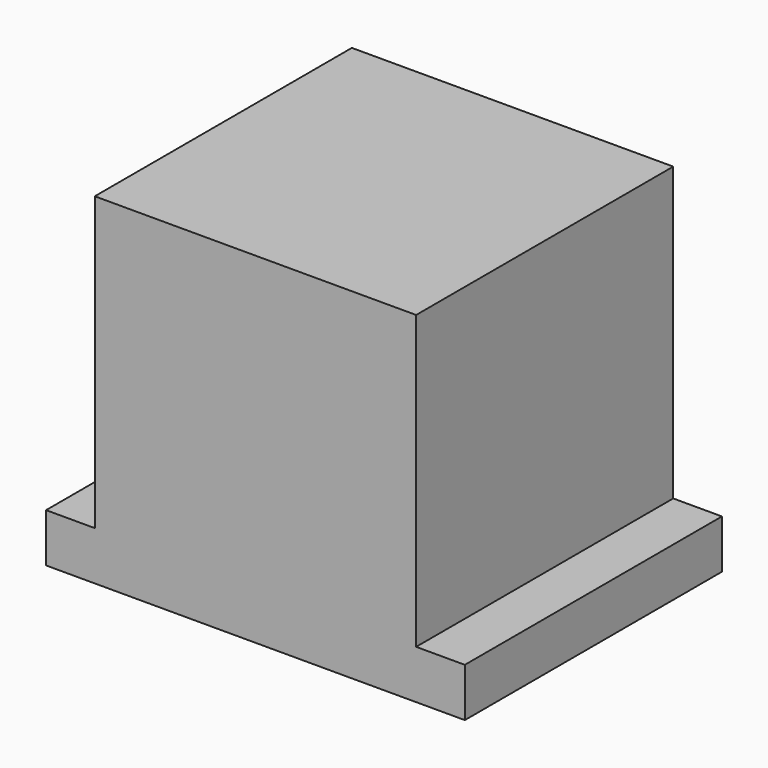
from build123d import *

# Parameters (mm, degrees)
BOX085_W               = 3.5
BOX085_H               = 2.5
BOX085_DEPTH           = 4.5
BOX083_W               = 6.6
BOX083_H               = 8.6
BOX083_DEPTH           = 1
BOX084_W               = 6.6
BOX084_H               = 6.6
BOX084_DEPTH           = 7
CUT022_PLACEMENT_ANGLE = 90


with BuildPart() as sub_cap:
    # Box085 → Box085 (new body)
    with BuildSketch(Plane(origin=(-1.75, -1.25, 0), x_dir=(1, 0, 0), z_dir=(0, 0, 1))):
        with Locations((1.75, 1.25)):
            Rectangle(BOX085_W, BOX085_H)
    extrude(amount=BOX085_DEPTH)


with BuildPart() as cap:
    # Box083 → Box083 (new body)
    with BuildSketch(Plane(origin=(-3.3, -4.3, 11), x_dir=(1, 0, 0), z_dir=(0, 0, 1))):
        with Locations((3.3, 4.3)):
            Rectangle(BOX083_W, BOX083_H)
    extrude(amount=BOX083_DEPTH)


with BuildPart() as switch_cap_master:
    # Box084 → Box084 (new body)
    with BuildSketch(Plane(origin=(-3.3, -3.3, 11), x_dir=(1, 0, 0), z_dir=(0, 0, 1))):
        with Locations((3.3, 3.3)):
            Rectangle(BOX084_W, BOX084_H)
    extrude(amount=BOX084_DEPTH)

    # Fusion023: union cap
    add(cap.part)

    # Cut022: cut sub cap
    add(sub_cap.part, mode=Mode.SUBTRACT)


with BuildPart() as switch_cap_master_1:
    # Cut022 placement: moved
    add(switch_cap_master.part.rotate(Axis((0, 0, 0), (0, 0, -1)), CUT022_PLACEMENT_ANGLE))


solid = switch_cap_master_1.part
